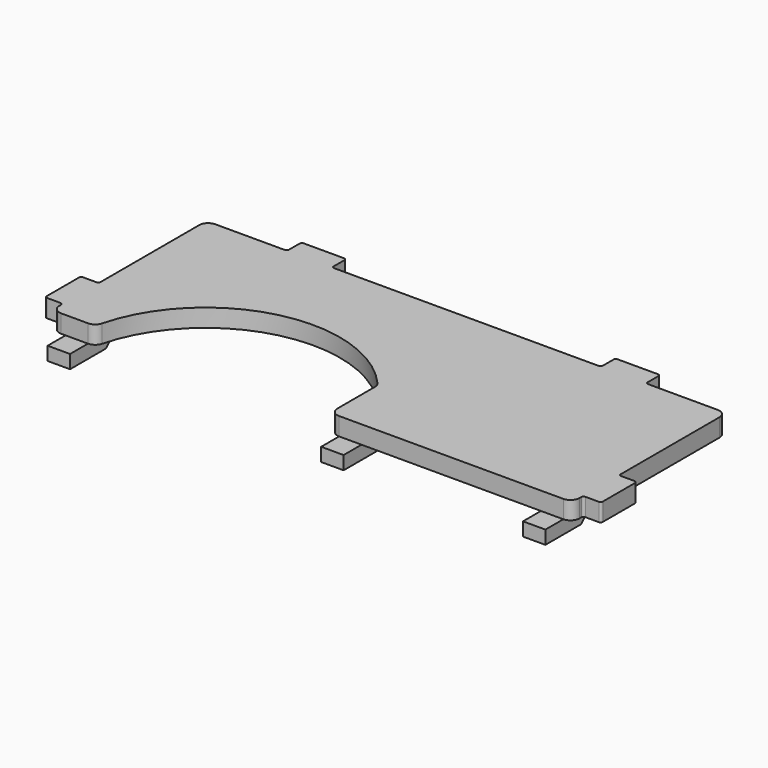
from build123d import *

# Parameters (mm, degrees)
SKETCH_W             = 124
SKETCH_H             = 124
PAD_DEPTH            = 2
POCKET_DEPTH         = 2.001
POCKET_DEPTH_BACK    = -2.001
POCKET001_DEPTH      = 2.001
POCKET001_DEPTH_BACK = -2.001
SKETCH006_W          = 150
SKETCH006_H          = 77
POCKET002_DEPTH      = 2.001
POCKET002_DEPTH_BACK = -2.001
POCKET003_DEPTH      = 2.001
POCKET003_DEPTH_BACK = -2.001
FILLET_R             = 2
FILLET001_R          = 2
FILLET002_R          = 0.5
SKETCH008_W          = 5
SKETCH008_H          = 10
PAD001_DEPTH         = 3
CHAMFER_SIZE         = 2.99


with BuildPart() as part:
    # Sketch → Pad (new body, symmetric)
    with BuildSketch(Plane.XY):
        with Locations((0, 62)):
            Rectangle(SKETCH_W, SKETCH_H)
    extrude(amount=PAD_DEPTH, both=True)

    # Sketch004 → Pocket (cut, two sides)
    with BuildSketch(Plane.XY) as pocket_sk:
        Polygon((-58, 5), (-62, 5), (-62, 15), (-58, 15), (-58, 80), (-62, 80), (-62, 90), (-58, 90), (-58, 124), (-88, 124), (-88, 0), (-58, 0), align=None)
        Polygon((58, 5), (62, 5), (62, 15), (58, 15), (58, 80), (62, 80), (62, 90), (58, 90), (58, 124), (88, 124), (88, 0), (58, 0), align=None)
    extrude(amount=-POCKET_DEPTH, mode=Mode.SUBTRACT)
    extrude(pocket_sk.sketch, amount=-POCKET_DEPTH_BACK, mode=Mode.SUBTRACT)

    # Sketch005 → Pocket001 (cut, two sides)
    with BuildSketch(Plane.XY) as pocket001_sk:
        Polygon((-60, 120), (-40, 120), (-40, 124), (-30, 124), (-30, 120), (30, 120), (30, 124), (40, 124), (40, 120), (60, 120), (60, 130), (-60, 130), align=None)
    extrude(amount=-POCKET001_DEPTH, mode=Mode.SUBTRACT)
    extrude(pocket001_sk.sketch, amount=-POCKET001_DEPTH_BACK, mode=Mode.SUBTRACT)

    # Sketch006 → Pocket002 (cut, two sides)
    with BuildSketch(Plane.XY) as pocket002_sk:
        with Locations((0, 38.5)):
            Rectangle(SKETCH006_W, SKETCH006_H)
    extrude(amount=-POCKET002_DEPTH, mode=Mode.SUBTRACT)
    extrude(pocket002_sk.sketch, amount=-POCKET002_DEPTH_BACK, mode=Mode.SUBTRACT)

    # Sketch007 → Pocket003 (cut, two sides)
    with BuildSketch(Plane.XY) as pocket003_sk:
        with BuildLine():
            ThreePointArc((4, 90.26136), (-49, 71), (4, 51.73864))
            Line((4, 90.26136), (4, 51.73864))
        make_face()
    extrude(amount=-POCKET003_DEPTH, mode=Mode.SUBTRACT)
    extrude(pocket003_sk.sketch, amount=-POCKET003_DEPTH_BACK, mode=Mode.SUBTRACT)

    # Fillet
    fillet_edges = [part.edges().sort_by_distance(p)[0] for p in [
        (-48.393877, 77, 0),
        (4, 90.26136, 0),
        (4, 77, 0),
        (58, 77, 0),
        (-58, 77, 0),
    ]]
    fillet(fillet_edges, radius=FILLET_R)

    # Fillet001
    fillet001_edges = [part.edges().sort_by_distance(p)[0] for p in [
        (58, 120, 0),
        (-58, 120, 0),
    ]]
    fillet(fillet001_edges, radius=FILLET001_R)

    # Fillet002
    fillet002_edges = [part.edges().sort_by_distance(p)[0] for p in [
        (-58, 80, 0),
        (-62, 80, 0),
        (-62, 90, 0),
        (-58, 90, 0),
        (-40, 120, 0),
        (-40, 124, 0),
        (-30, 124, 0),
        (-30, 120, 0),
        (30, 120, 0),
        (30, 124, 0),
        (40, 124, 0),
        (40, 120, 0),
        (58, 90, 0),
        (62, 90, 0),
        (62, 80, 0),
        (58, 80, 0),
    ]]
    fillet(fillet002_edges, radius=FILLET002_R)

    # Sketch008 (on DatumPlane) → Pad001 (join)
    with BuildSketch(Plane.XY.offset(-2)):
        with Locations((-52.5, 77)):
            Rectangle(SKETCH008_W, SKETCH008_H)
        with Locations((8.5, 77)):
            Rectangle(SKETCH008_W, SKETCH008_H)
        with Locations((53.5, 77)):
            Rectangle(SKETCH008_W, SKETCH008_H)
    extrude(amount=-PAD001_DEPTH)

    # Chamfer
    chamfer_edges = [part.edges().sort_by_distance(p)[0] for p in [
        (-52.5, 82, -2),
        (8.5, 82, -2),
        (53.5, 82, -2),
    ]]
    chamfer(chamfer_edges, length=CHAMFER_SIZE)


solid = part.part
